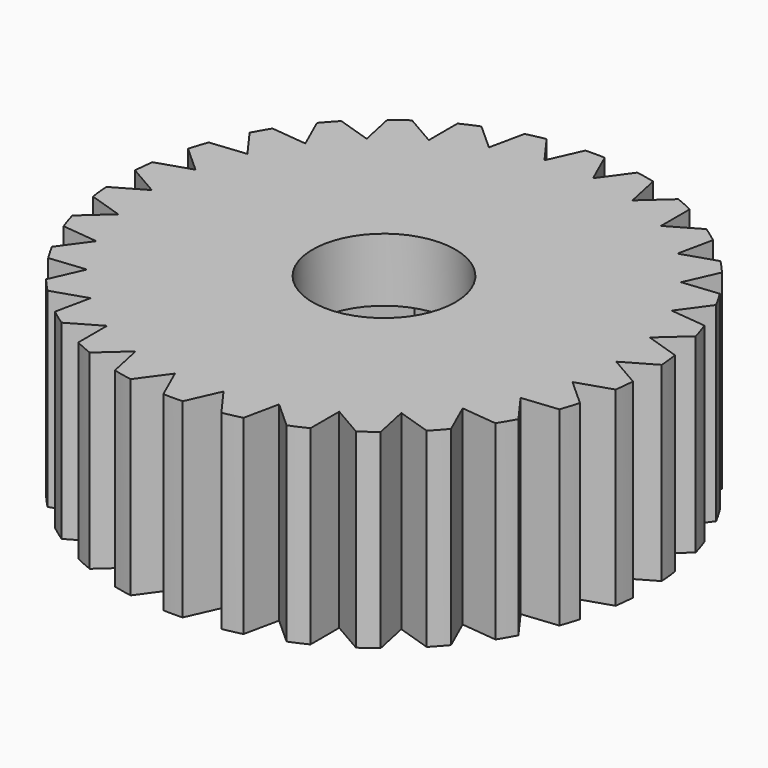
from build123d import *

# Parameters (mm, degrees)
F0_R     = 8.318
F1_DEPTH = 6
F2_R     = 2.25
F3_DEPTH = 2
F5_DEPTH = 6
F6_COUNT = 30


with BuildPart() as f1:
    # F0 (on Top) → F1 (new body)
    with BuildSketch(Plane.XY):
        Circle(F0_R)
        Polygon((2.492998, 4.318), (4.985997, 0), (2.492998, -4.318), (-2.492998, -4.318), (-4.985997, 0), (-2.492998, 4.318), align=None, mode=Mode.SUBTRACT)
    extrude(amount=F1_DEPTH)

    # F2 (on face) → F3 (join)
    with BuildSketch(Plane.XY.offset(6)):
        Polygon((-4.985997, 0), (-2.492998, -4.318), (2.492998, -4.318), (4.985997, 0), (2.492998, 4.318), (-2.492998, 4.318), align=None)
        Circle(F2_R, mode=Mode.SUBTRACT)
    extrude(amount=-F3_DEPTH)


with BuildPart() as f5:
    # F4 (on face) → F5 (new body)
    with BuildSketch(Plane(origin=(0, 0, 0), x_dir=(1, 0, 0), z_dir=(0, 0, -1))):
        Polygon((-9.050051, 1), (-9.050051, -1), (-7.318, 0), align=None)
    extrude(amount=-F5_DEPTH)


with BuildPart() as f6_1:
    # F6: instance of F5
    add(f5.part.rotate(Axis((0, 0, 6), (0, 0, 1)), 1 * 360 / F6_COUNT))


with BuildPart() as f6_2:
    # F6: instance of F5
    add(f5.part.rotate(Axis((0, 0, 6), (0, 0, 1)), 2 * 360 / F6_COUNT))


with BuildPart() as f6_3:
    # F6: instance of F5
    add(f5.part.rotate(Axis((0, 0, 6), (0, 0, 1)), 3 * 360 / F6_COUNT))


with BuildPart() as f6_4:
    # F6: instance of F5
    add(f5.part.rotate(Axis((0, 0, 6), (0, 0, 1)), 4 * 360 / F6_COUNT))


with BuildPart() as f6_5:
    # F6: instance of F5
    add(f5.part.rotate(Axis((0, 0, 6), (0, 0, 1)), 5 * 360 / F6_COUNT))


with BuildPart() as f6_6:
    # F6: instance of F5
    add(f5.part.rotate(Axis((0, 0, 6), (0, 0, 1)), 6 * 360 / F6_COUNT))


with BuildPart() as f6_7:
    # F6: instance of F5
    add(f5.part.rotate(Axis((0, 0, 6), (0, 0, 1)), 7 * 360 / F6_COUNT))


with BuildPart() as f6_8:
    # F6: instance of F5
    add(f5.part.rotate(Axis((0, 0, 6), (0, 0, 1)), 8 * 360 / F6_COUNT))


with BuildPart() as f6_9:
    # F6: instance of F5
    add(f5.part.rotate(Axis((0, 0, 6), (0, 0, 1)), 9 * 360 / F6_COUNT))


with BuildPart() as f6_10:
    # F6: instance of F5
    add(f5.part.rotate(Axis((0, 0, 6), (0, 0, 1)), 10 * 360 / F6_COUNT))


with BuildPart() as f6_11:
    # F6: instance of F5
    add(f5.part.rotate(Axis((0, 0, 6), (0, 0, 1)), 11 * 360 / F6_COUNT))


with BuildPart() as f6_12:
    # F6: instance of F5
    add(f5.part.rotate(Axis((0, 0, 6), (0, 0, 1)), 12 * 360 / F6_COUNT))


with BuildPart() as f6_13:
    # F6: instance of F5
    add(f5.part.rotate(Axis((0, 0, 6), (0, 0, 1)), 13 * 360 / F6_COUNT))


with BuildPart() as f6_14:
    # F6: instance of F5
    add(f5.part.rotate(Axis((0, 0, 6), (0, 0, 1)), 14 * 360 / F6_COUNT))


with BuildPart() as f6_15:
    # F6: instance of F5
    add(f5.part.rotate(Axis((0, 0, 6), (0, 0, 1)), 15 * 360 / F6_COUNT))


with BuildPart() as f6_16:
    # F6: instance of F5
    add(f5.part.rotate(Axis((0, 0, 6), (0, 0, 1)), 16 * 360 / F6_COUNT))


with BuildPart() as f6_17:
    # F6: instance of F5
    add(f5.part.rotate(Axis((0, 0, 6), (0, 0, 1)), 17 * 360 / F6_COUNT))


with BuildPart() as f6_18:
    # F6: instance of F5
    add(f5.part.rotate(Axis((0, 0, 6), (0, 0, 1)), 18 * 360 / F6_COUNT))


with BuildPart() as f6_19:
    # F6: instance of F5
    add(f5.part.rotate(Axis((0, 0, 6), (0, 0, 1)), 19 * 360 / F6_COUNT))


with BuildPart() as f6_20:
    # F6: instance of F5
    add(f5.part.rotate(Axis((0, 0, 6), (0, 0, 1)), 20 * 360 / F6_COUNT))


with BuildPart() as f6_21:
    # F6: instance of F5
    add(f5.part.rotate(Axis((0, 0, 6), (0, 0, 1)), 21 * 360 / F6_COUNT))


with BuildPart() as f6_22:
    # F6: instance of F5
    add(f5.part.rotate(Axis((0, 0, 6), (0, 0, 1)), 22 * 360 / F6_COUNT))


with BuildPart() as f6_23:
    # F6: instance of F5
    add(f5.part.rotate(Axis((0, 0, 6), (0, 0, 1)), 23 * 360 / F6_COUNT))


with BuildPart() as f6_24:
    # F6: instance of F5
    add(f5.part.rotate(Axis((0, 0, 6), (0, 0, 1)), 24 * 360 / F6_COUNT))


with BuildPart() as f6_25:
    # F6: instance of F5
    add(f5.part.rotate(Axis((0, 0, 6), (0, 0, 1)), 25 * 360 / F6_COUNT))


with BuildPart() as f6_26:
    # F6: instance of F5
    add(f5.part.rotate(Axis((0, 0, 6), (0, 0, 1)), 26 * 360 / F6_COUNT))


with BuildPart() as f6_27:
    # F6: instance of F5
    add(f5.part.rotate(Axis((0, 0, 6), (0, 0, 1)), 27 * 360 / F6_COUNT))


with BuildPart() as f6_28:
    # F6: instance of F5
    add(f5.part.rotate(Axis((0, 0, 6), (0, 0, 1)), 28 * 360 / F6_COUNT))


with BuildPart() as f6_29:
    # F6: instance of F5
    add(f5.part.rotate(Axis((0, 0, 6), (0, 0, 1)), 29 * 360 / F6_COUNT))


with BuildPart() as f1_1:
    add(f1.part)

    # F7: cut F5, F6_1, F6_2, F6_3, F6_4, F6_5, F6_6, F6_7, F6_8, F6_9, F6_10, F6_11, F6_12, F6_13, F6_14, F6_15, F6_16, F6_17, F6_18, F6_19, F6_20, F6_21, F6_22, F6_23, F6_24, F6_25, F6_26, F6_27, F6_28, F6_29
    add(f5.part, mode=Mode.SUBTRACT)
    add(f6_1.part, mode=Mode.SUBTRACT)
    add(f6_2.part, mode=Mode.SUBTRACT)
    add(f6_3.part, mode=Mode.SUBTRACT)
    add(f6_4.part, mode=Mode.SUBTRACT)
    add(f6_5.part, mode=Mode.SUBTRACT)
    add(f6_6.part, mode=Mode.SUBTRACT)
    add(f6_7.part, mode=Mode.SUBTRACT)
    add(f6_8.part, mode=Mode.SUBTRACT)
    add(f6_9.part, mode=Mode.SUBTRACT)
    add(f6_10.part, mode=Mode.SUBTRACT)
    add(f6_11.part, mode=Mode.SUBTRACT)
    add(f6_12.part, mode=Mode.SUBTRACT)
    add(f6_13.part, mode=Mode.SUBTRACT)
    add(f6_14.part, mode=Mode.SUBTRACT)
    add(f6_15.part, mode=Mode.SUBTRACT)
    add(f6_16.part, mode=Mode.SUBTRACT)
    add(f6_17.part, mode=Mode.SUBTRACT)
    add(f6_18.part, mode=Mode.SUBTRACT)
    add(f6_19.part, mode=Mode.SUBTRACT)
    add(f6_20.part, mode=Mode.SUBTRACT)
    add(f6_21.part, mode=Mode.SUBTRACT)
    add(f6_22.part, mode=Mode.SUBTRACT)
    add(f6_23.part, mode=Mode.SUBTRACT)
    add(f6_24.part, mode=Mode.SUBTRACT)
    add(f6_25.part, mode=Mode.SUBTRACT)
    add(f6_26.part, mode=Mode.SUBTRACT)
    add(f6_27.part, mode=Mode.SUBTRACT)
    add(f6_28.part, mode=Mode.SUBTRACT)
    add(f6_29.part, mode=Mode.SUBTRACT)


solid = f1_1.part
